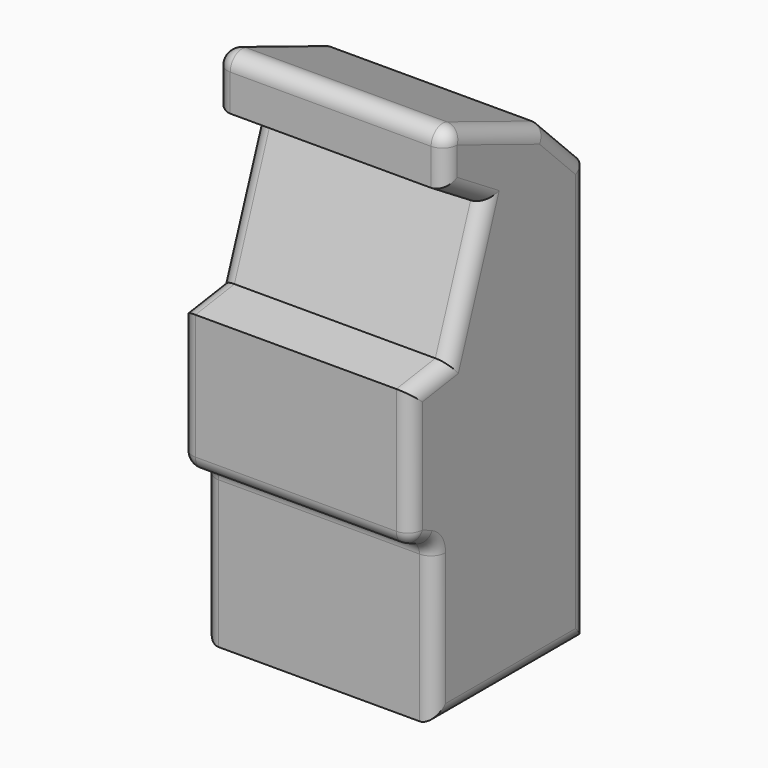
from build123d import *

# Parameters (mm, degrees)
F1_DEPTH = 39.652094
F2_R     = 5


with BuildPart() as f1:
    # F0 (on Right) → F1 (new body, symmetric)
    with BuildSketch(Plane.YZ):
        Polygon((-66, 0), (0, 0), (0, 145), (-17.67767, 162.67767), (-61, 180), (-61, 160), (-43.964932, 149.316322), (-59.184828, 107.5), (-76, 105), (-76, 58.582576), (-66, 54), align=None)
    extrude(amount=F1_DEPTH, both=True)

    # F2
    f2_edges = [f1.edges().sort_by_distance(p)[0] for p in [
        (0, -76, 58.582576),
        (0, -66, 54),
        (-39.652094, -66, 27),
        (-39.652094, -76, 81.791288),
        (-39.652094, -67.592414, 106.25),
        (-39.652094, -51.57488, 128.408161),
        (-39.652094, -33, 0),
        (-39.652094, 0, 72.5),
        (-39.652094, -8.838835, 153.838835),
        (-39.652094, -39.338835, 171.338835),
        (-39.652094, -61, 170),
        (-39.652094, -52.482466, 154.658161),
        (-39.652094, -71, 56.291288),
        (39.652094, -33, 0),
        (39.652094, 0, 72.5),
        (39.652094, -8.838835, 153.838835),
        (39.652094, -39.338835, 171.338835),
        (39.652094, -61, 170),
        (39.652094, -52.482466, 154.658161),
        (39.652094, -51.57488, 128.408161),
        (39.652094, -67.592414, 106.25),
        (39.652094, -76, 81.791288),
        (39.652094, -71, 56.291288),
        (39.652094, -66, 27),
        (0, -61, 180),
    ]]
    fillet(f2_edges, radius=F2_R)


solid = f1.part
